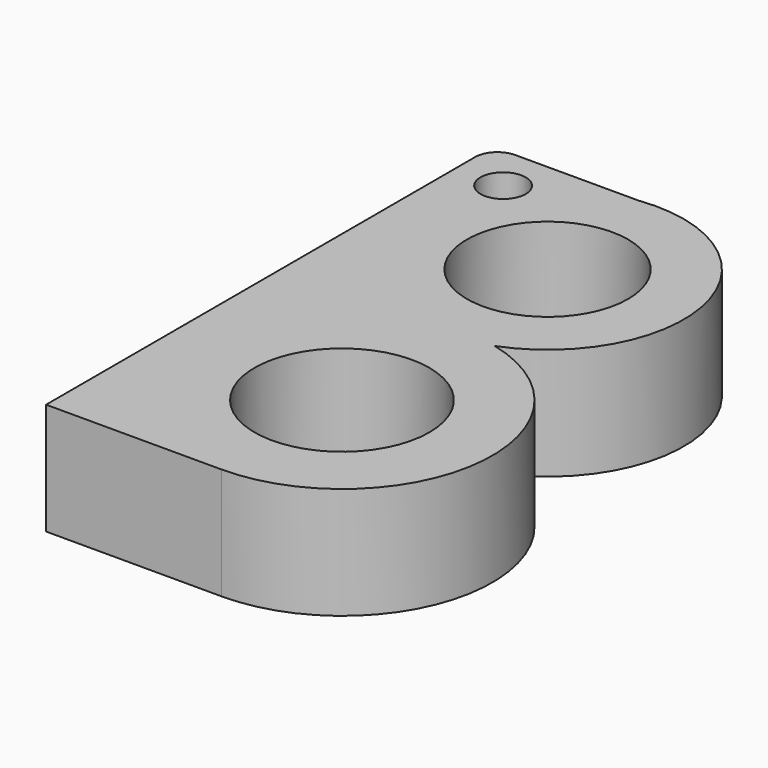
from build123d import *

# Parameters (mm, degrees)
F0_R     = 3.913222
F0_R_2   = 1.012094
F0_R_3   = 3.607223
F1_DEPTH = 5


with BuildPart() as f1:
    # F0 (on Top) → F1 (new body)
    with BuildSketch(Plane.XY):
        with BuildLine():
            ThreePointArc((-23.629729, 22.588529), (-24.336836, 22.295636), (-24.629729, 21.588529))
            Line((-24.629729, 21.588529), (-24.629729, -2.411471))
            Line((-24.629729, -2.411471), (-16.771118, -2.411471))
            ThreePointArc((-16.771118, -2.411471), (-10.089518, 3.50554), (-15.155087, 10.853656))
            ThreePointArc((-15.155087, 10.853656), (-11.437269, 18.035431), (-18.120783, 22.588529))
            Line((-18.120783, 22.588529), (-23.629729, 22.588529))
        make_face()
        with Locations((-16.771118, 4.319529)):
            Circle(F0_R, mode=Mode.SUBTRACT)
        with Locations((-22.511555, 20.511821)):
            Circle(F0_R_2, mode=Mode.SUBTRACT)
        with Locations((-17.347449, 16.541781)):
            Circle(F0_R_3, mode=Mode.SUBTRACT)
    extrude(amount=F1_DEPTH)


solid = f1.part
